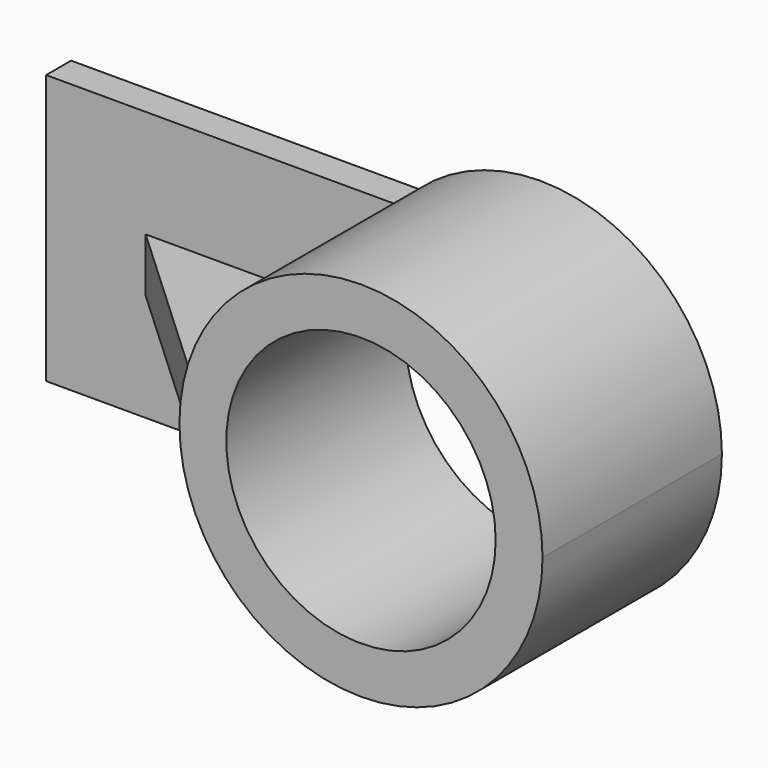
from build123d import *

# Parameters (mm, degrees)
F0_R     = 31.731812
F1_DEPTH = 52.832
F2_DEPTH = 7.366
F4_DEPTH = 6.35


with BuildPart() as f1:
    # F0 (on Front) → F1 (new body)
    with BuildSketch(Plane.XZ):
        with BuildLine():
            ThreePointArc((14.285808, 31.738713), (0.18668, 0), (14.285808, -31.738713))
            ThreePointArc((14.285808, -31.738713), (60.324641, -39.089882), (85.733199, 0))
            ThreePointArc((85.733199, 0), (60.324641, 39.089882), (14.285808, 31.738713))
        make_face()
        with Locations((42.95994, 0)):
            Circle(F0_R, mode=Mode.SUBTRACT)
    extrude(amount=F1_DEPTH)

    # F0 (on Front) → F2 (join)
    with BuildSketch(Plane.XZ):
        with BuildLine():
            Line((-67.602344, -31.738713), (14.285808, -31.738713))
            ThreePointArc((14.285808, -31.738713), (0.18668, 0), (14.285808, 31.738713))
            Line((14.285808, 31.738713), (-67.602344, 31.738713))
            Line((-67.602344, 31.738713), (-67.602344, -31.738713))
        make_face()
    extrude(amount=F2_DEPTH)


with BuildPart() as f4:
    # F3 (on Top) → F4 (new body, symmetric)
    with BuildSketch(Plane.XY):
        Polygon((0, -7.401346), (-44.116303, -7.401346), (0, -48.352592), align=None)
    extrude(amount=F4_DEPTH, both=True)


solid = Compound([f1.part, f4.part])
